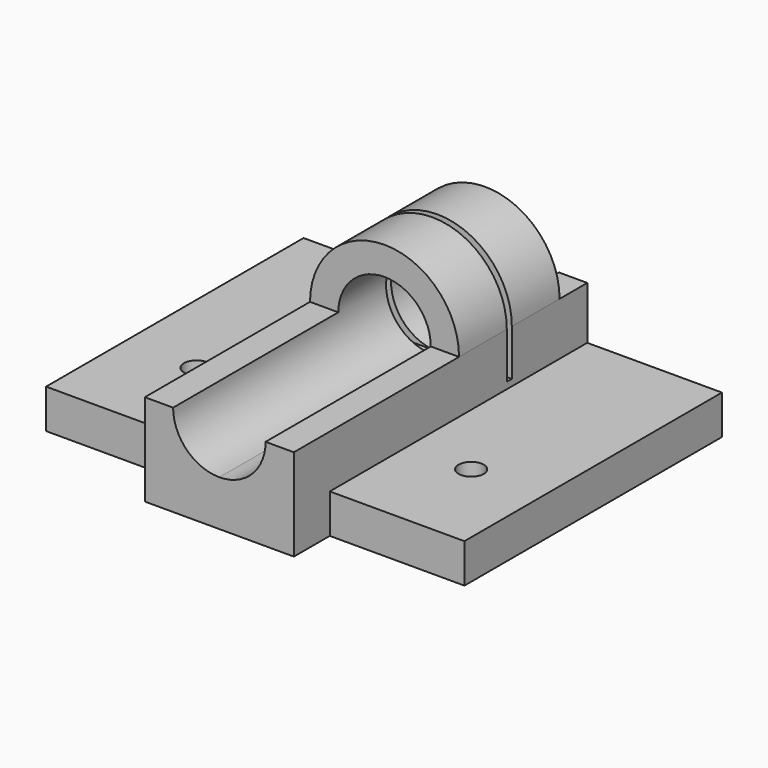
from build123d import *

# Parameters (mm, degrees)
F1_DEPTH  = 38.1
F2_W      = 46.7332457192
F2_H      = 0.889
F3_DEPTH  = 20.5994
F5_DEPTH  = 29.21
F7_DEPTH  = 29.21
F8_W      = 22.6521064695
F8_H      = 63.5
F8_W_2    = 36.5288935305
F9_DEPTH  = 2.54
F10_DEPTH = 3
F11_W     = 59.181
F11_H     = 17.9686862156
F12_DEPTH = 69.342
F13_W     = 21.081
F13_H     = 6.35
F14_DEPTH = 3
F15_R     = 1.778
F16_DEPTH = 25.4


with BuildPart() as f1:
    # F0 (on Front) → F1 (new body, symmetric)
    with BuildSketch(Plane.XZ):
        with BuildLine():
            ThreePointArc((9.876787061, -3.4580663421), (15.0923499173, 0.3786818234), (17.081, 6.5405))
            ThreePointArc((17.081, 6.5405), (6.5405, 17.081), (-4, 6.5405))
            ThreePointArc((-4, 6.5405), (-2.0113499173, 0.3786818234), (3.204212939, -3.4580663421))
            Line((3.204212939, -3.4580663421), (9.876787061, -3.4580663421))
        make_face()
        with BuildLine():
            ThreePointArc((6.5405, 0), (1.9156680976, 11.1653319024), (13.081, 6.5405))
            ThreePointArc((13.081, 6.5405), (11.1653319024, 1.9156680976), (6.5405, 0))
        make_face(mode=Mode.SUBTRACT)
        with BuildLine():
            Line((17.081, 0), (17.081, 6.5405))
            ThreePointArc((17.081, 6.5405), (15.0923499173, 0.3786818234), (9.876787061, -3.4580663421))
            Line((9.876787061, -3.4580663421), (17.081, -3.4580663421))
            Line((17.081, -3.4580663421), (17.081, 0))
        make_face()
        with BuildLine():
            ThreePointArc((3.204212939, -3.4580663421), (-2.0113499173, 0.3786818234), (-4, 6.5405))
            Line((-4, 6.5405), (-4, -3.4580663421))
            Line((-4, -3.4580663421), (3.204212939, -3.4580663421))
        make_face()
        with BuildLine():
            ThreePointArc((3.204212939, -3.4580663421), (6.5405, -4), (9.876787061, -3.4580663421))
            Line((9.876787061, -3.4580663421), (3.204212939, -3.4580663421))
        make_face()
        with BuildLine():
            ThreePointArc((9.876787061, -3.4580663421), (15.0923499173, 0.3786818234), (17.081, 6.5405))
            ThreePointArc((17.081, 6.5405), (6.5405, 17.081), (-4, 6.5405))
            ThreePointArc((-4, 6.5405), (-2.0113499173, 0.3786818234), (3.204212939, -3.4580663421))
            Line((3.204212939, -3.4580663421), (9.876787061, -3.4580663421))
        make_face()
        with BuildLine():
            ThreePointArc((6.5405, 0), (1.9156680976, 11.1653319024), (13.081, 6.5405))
            ThreePointArc((13.081, 6.5405), (11.1653319024, 1.9156680976), (6.5405, 0))
        make_face(mode=Mode.SUBTRACT)
    extrude(amount=F1_DEPTH, both=True)

    # F2 (on Top) → F3 (cut)
    with BuildSketch(Plane.XY):
        Rectangle(F2_W, F2_H)
    extrude(amount=F3_DEPTH, mode=Mode.SUBTRACT)

    # F4 (on face) → F5 (cut)
    with BuildSketch(Plane(origin=(0, 38.1, 0), x_dir=(-1, 0, 0), z_dir=(0, 1, 0))):
        with BuildLine():
            ThreePointArc((-17.081, 6.5405), (-7.9427578532, 16.987308755), (3.6269006049, 9.3200872335))
            Line((3.6269006049, 9.3200872335), (4, 28.6066166948))
            Line((4, 28.6066166948), (-17.081, 29.0144302604))
            Line((-17.081, 29.0144302604), (-17.5960424147, 27.9336988817))
            Line((-17.5960424147, 27.9336988817), (-17.081, 6.5405))
        make_face()
        with BuildLine():
            ThreePointArc((-13.081, 6.5405), (-6.5405, 13.081), (0, 6.5405))
            Line((0, 6.5405), (4, 6.5405))
            ThreePointArc((4, 6.5405), (3.906308755, 7.9427578532), (3.6269006049, 9.3200872335))
            ThreePointArc((3.6269006049, 9.3200872335), (-7.9427578532, 16.987308755), (-17.081, 6.5405))
            Line((-17.081, 6.5405), (-13.081, 6.5405))
        make_face()
        with BuildLine():
            Line((-13.081, 6.5405), (0, 6.5405))
            ThreePointArc((0, 6.5405), (-6.5405, 13.081), (-13.081, 6.5405))
        make_face()
    extrude(amount=-F5_DEPTH, mode=Mode.SUBTRACT)

    # F6 (on face) → F7 (cut)
    with BuildSketch(Plane.XZ.offset(38.1)):
        with BuildLine():
            ThreePointArc((0, 6.5405), (6.5405, 13.081), (13.081, 6.5405))
            Line((13.081, 6.5405), (17.081, 6.5405))
            ThreePointArc((17.081, 6.5405), (6.5405, 17.081), (-4, 6.5405))
            Line((-4, 6.5405), (0, 6.5405))
        make_face()
    extrude(amount=-F7_DEPTH, mode=Mode.SUBTRACT)

    # F8 (on face) → F9 (join)
    with BuildSketch(Plane(origin=(0, 0, -3.4580663421), x_dir=(1, 0, 0), z_dir=(0, 0, -1))):
        with Locations((24.8049467652, 0)):
            Rectangle(F8_W, F8_H)
        with Locations((-4.7855532348, 0)):
            Rectangle(F8_W_2, F8_H)
    extrude(amount=-F9_DEPTH)

    # F8 (on face) → F10 (join)
    with BuildSketch(Plane(origin=(0, 0, -3.4580663421), x_dir=(1, 0, 0), z_dir=(0, 0, -1))):
        with Locations((24.8049467652, 0)):
            Rectangle(F8_W, F8_H)
        with Locations((-4.7855532348, 0)):
            Rectangle(F8_W_2, F8_H)
    extrude(amount=F10_DEPTH)

    # F11 (on face) → F12 (cut)
    with BuildSketch(Plane(origin=(0, 0, -6.4580663421), x_dir=(1, 0, 0), z_dir=(0, 0, -1))):
        with Locations((6.5405, -22.7656568922)):
            Rectangle(F11_W, F11_H)
        Polygon((-23.05, -13.7813137844), (-30.0445724279, -13.7813137844), (-30.0445724279, -67.8615421057), (58.1297166646, -67.8615421057), (58.1297166646, -13.7813137844), (36.131, -13.7813137844), (36.131, -31.75), (-23.05, -31.75), align=None)
    extrude(amount=-F12_DEPTH, mode=Mode.SUBTRACT)

    # F13 (on face) → F14 (join, through all)
    with BuildSketch(Plane(origin=(0, 0, -3.4580663421), x_dir=(1, 0, 0), z_dir=(0, 0, -1))):
        with Locations((6.5405, 34.925)):
            Rectangle(F13_W, F13_H)
    extrude(amount=F14_DEPTH)

    # F15 (on face) → F16 (cut)
    with BuildSketch(Plane.XY.offset(-0.9180663421)):
        with Locations((-12.89, -17.8570281714)):
            Circle(F15_R)
        with Locations((25.971, -17.8570281714)):
            Circle(F15_R)
    extrude(amount=-F16_DEPTH, mode=Mode.SUBTRACT)


solid = f1.part
